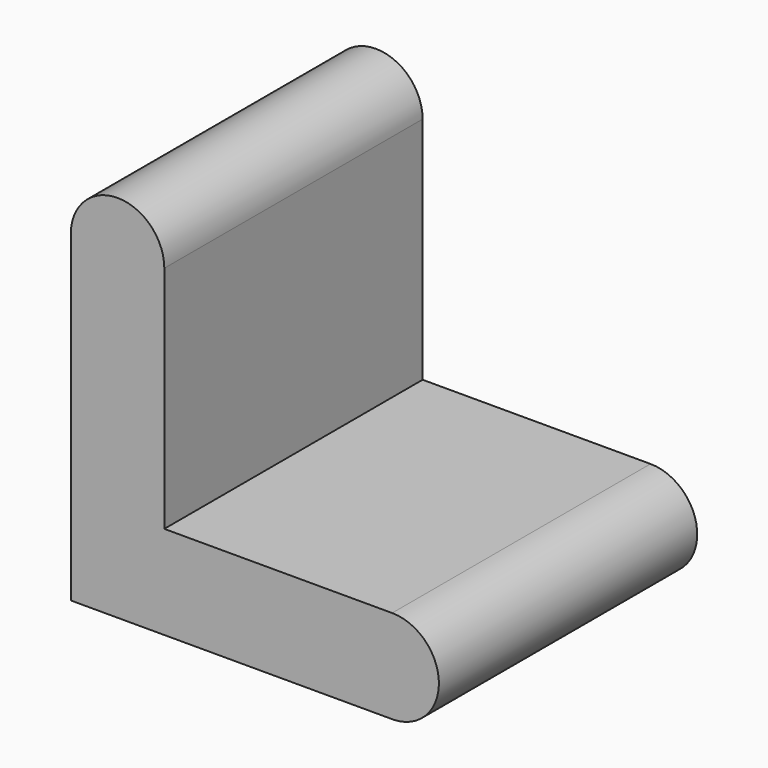
from build123d import *

# Parameters (mm, degrees)
F1_DEPTH = 37.999924


with BuildPart() as f1:
    # F0 (on Front) → F1 (new body)
    with BuildSketch(Plane.XZ):
        with BuildLine():
            Line((0, 37.999924), (0, 0))
            Line((0, 0), (37.999924, 0))
            ThreePointArc((37.999924, 0), (43.311252, 5.591925), (37.81125, 10.998385))
            Line((37.81125, 10.998385), (11.000003, 10.998385))
            Line((11.000003, 10.998385), (11.000003, 37.999924))
            ThreePointArc((11.000003, 37.999924), (5.500002, 43.499926), (0, 37.999924))
        make_face()
    extrude(amount=F1_DEPTH)


solid = f1.part
